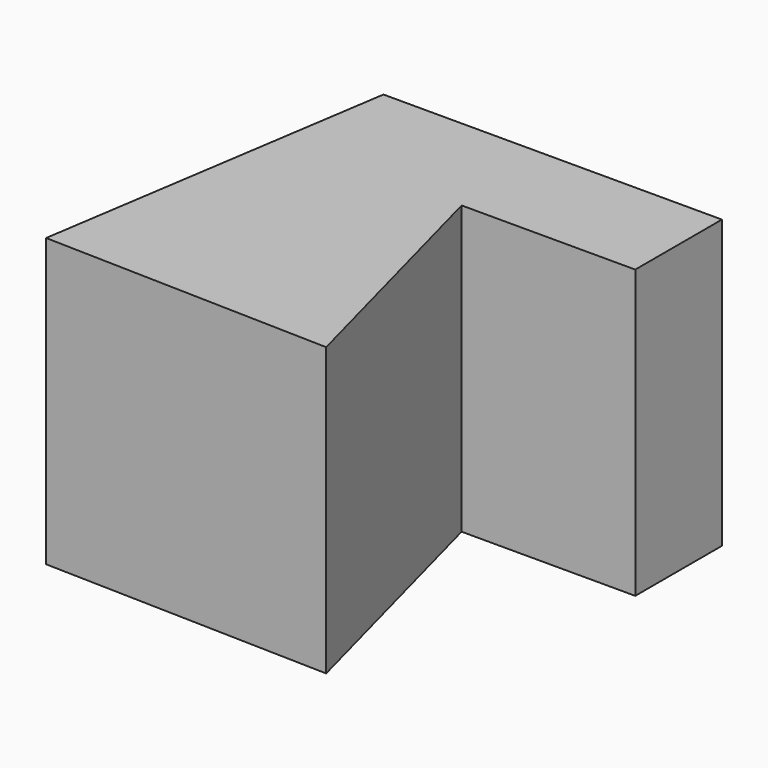
from build123d import *

# Parameters (mm, degrees)
F1_DEPTH = 47.244


with BuildPart() as f1:
    # F0 (on Top) → F1 (new body)
    with BuildSketch(Plane.XY):
        Polygon((17.51199, 24.136804), (-15.777195, 24.136804), (-11.050426, 6.32003), (17.51199, 6.32003), align=None)
        Polygon((-38.154081, 24.136804), (-47.062762, -34.089737), (0, -35.332724), (-11.050426, 6.32003), (-15.777195, 24.136804), align=None)
    extrude(amount=F1_DEPTH)


solid = f1.part
